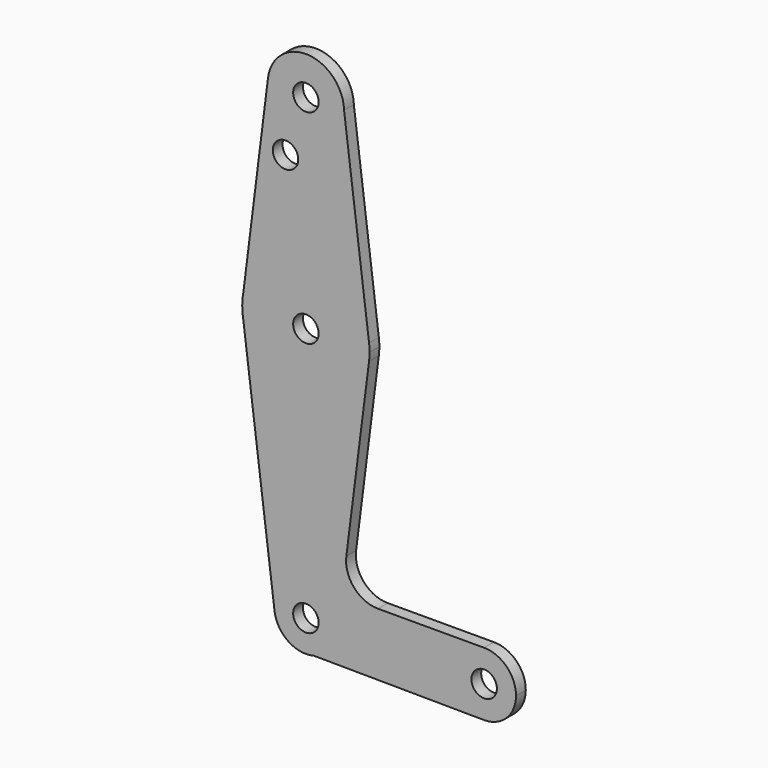
from build123d import *

# Parameters (mm, degrees)
F0_R     = 3.175
F1_DEPTH = 3.048


with BuildPart() as f1:
    # F0 (on Front) → F1 (new body)
    with BuildSketch(Plane.XZ):
        with BuildLine():
            ThreePointArc((15.748631, 61.500946), (15.843376, 62.498478), (15.874999, 63.5))
            ThreePointArc((15.874999, 63.5), (15.843376, 64.501522), (15.748631, 65.499054))
            ThreePointArc((15.748631, 65.499054), (0.563144, 79.365008), (-15.567259, 66.610643))
            Line((-15.567259, 66.610643), (-15.853733, 64.321458))
            ThreePointArc((-15.853733, 64.321458), (-15.863991, 62.908862), (-15.748633, 61.500946))
            ThreePointArc((-15.748633, 61.500946), (0, 47.625), (15.748631, 61.500946))
        make_face()
        with Locations((-1e-06, 63.5)):
            Circle(F0_R, mode=Mode.SUBTRACT)
        with BuildLine():
            ThreePointArc((-15.567259, 66.610643), (0.563144, 79.365008), (15.748631, 65.499054))
            Line((15.748631, 65.499054), (9.521553, 114.556243))
            ThreePointArc((9.521553, 114.556243), (9.524138, 114.428133), (9.525, 114.3))
            ThreePointArc((9.525, 114.3), (-0.592526, 104.793448), (-9.451281, 115.482757))
            Line((-9.451281, 115.482757), (-15.567259, 66.610643))
        make_face()
        with Locations((-5.080221, 100.0252)):
            Circle(F0_R, mode=Mode.SUBTRACT)
        with BuildLine():
            Line((10.08135, 16.853859), (15.748631, 61.500946))
            ThreePointArc((15.748631, 61.500946), (0, 47.625), (-15.748633, 61.500946))
            Line((-15.748633, 61.500946), (-7.816068, -0.992133))
            ThreePointArc((-7.816068, -0.992133), (-0.497057, 7.86309), (7.878784, 0))
            ThreePointArc((7.878784, 0), (6.238207, -4.812486), (1.9997, -7.62079))
            Line((1.9997, -7.62079), (44.390741, -7.937279))
            ThreePointArc((44.390741, -7.937279), (36.512537, 0.024387), (44.439515, 7.937493))
            Line((44.439515, 7.937493), (17.978767, 7.90254))
            ThreePointArc((17.978767, 7.90254), (12.006638, 10.593011), (10.08135, 16.853859))
        make_face()
        with BuildLine():
            Line((-15.853733, 64.321458), (-15.567259, 66.610643))
            ThreePointArc((-15.567259, 66.610643), (-15.752135, 65.471261), (-15.853733, 64.321458))
        make_face()
        with BuildLine():
            ThreePointArc((9.525, 114.3), (9.524138, 114.428133), (9.521553, 114.556243))
            ThreePointArc((9.521553, 114.556243), (0.464587, 123.813663), (-9.451281, 115.482757))
            ThreePointArc((-9.451281, 115.482757), (-0.592526, 104.793448), (9.525, 114.3))
        make_face()
        with Locations((0, 114.3)):
            Circle(F0_R, mode=Mode.SUBTRACT)
        with BuildLine():
            ThreePointArc((7.878784, 0), (-0.497057, 7.86309), (-7.816068, -0.992133))
            ThreePointArc((-7.816068, -0.992133), (-4.409343, -6.52939), (1.9997, -7.62079))
            ThreePointArc((1.9997, -7.62079), (6.238207, -4.812486), (7.878784, 0))
        make_face()
        Circle(F0_R, mode=Mode.SUBTRACT)
        with BuildLine():
            ThreePointArc((52.3875, 0), (50.058952, 5.616366), (44.439515, 7.937493))
            ThreePointArc((44.439515, 7.937493), (36.512537, 0.024387), (44.390741, -7.937279))
            ThreePointArc((44.390741, -7.937279), (50.04167, -5.633572), (52.3875, 0))
        make_face()
        with Locations((44.45, 0)):
            Circle(F0_R, mode=Mode.SUBTRACT)
    extrude(amount=F1_DEPTH)


solid = f1.part
